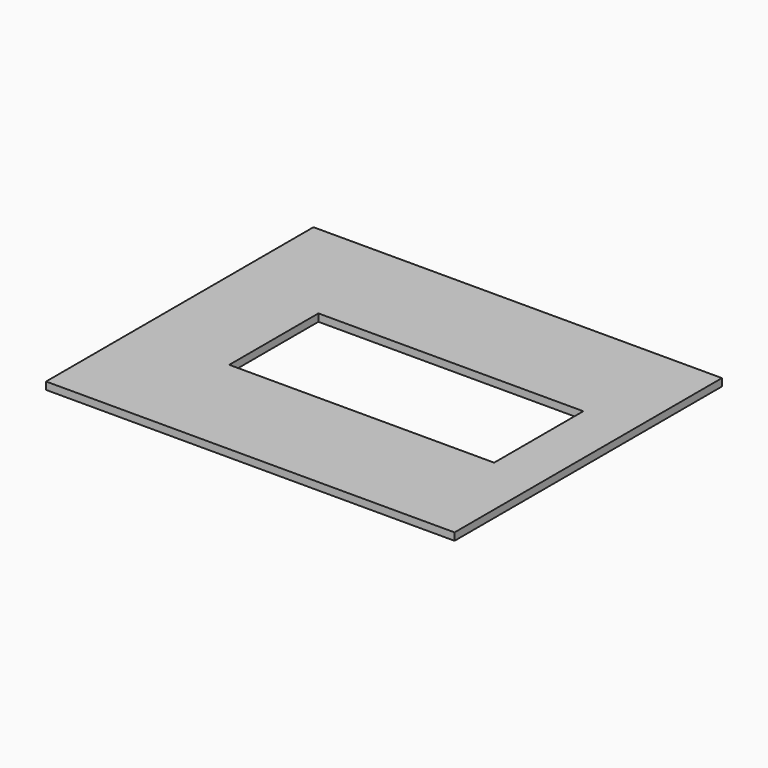
from build123d import *

# Parameters (mm, degrees)
SKETCH_W   = 330
SKETCH_H   = 270
SKETCH_W_2 = 214
SKETCH_H_2 = 90
PAD_DEPTH  = 6


with BuildPart() as part:
    # Sketch → Pad (new body)
    with BuildSketch(Plane.XY):
        with Locations((165, 135)):
            Rectangle(SKETCH_W, SKETCH_H)
        with Locations((183, 135)):
            Rectangle(SKETCH_W_2, SKETCH_H_2, mode=Mode.SUBTRACT)
    extrude(amount=PAD_DEPTH)


solid = part.part
